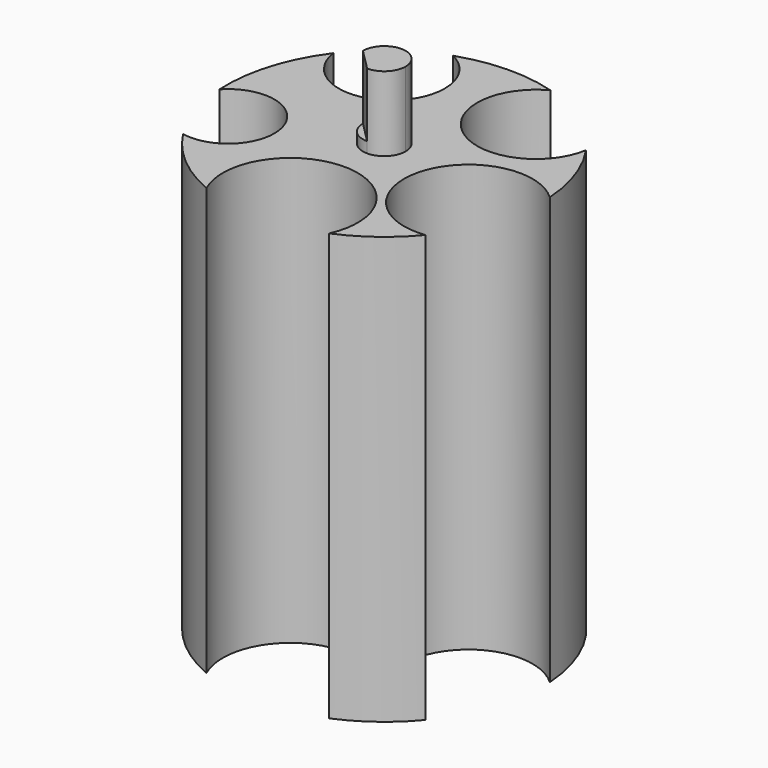
from build123d import *

# Parameters (mm, degrees)
F1_DEPTH = 100
F4_DEPTH = 17.5
F5_DEPTH = 2.5


with BuildPart() as f1:
    # F0 (on Top) → F1 (new body)
    with BuildSketch(Plane.XY):
        with BuildLine():
            ThreePointArc((28.5209304486, -23.5702466331), (12.2876501905, -3.9924995673), (36.9281607922, 2.3045477884))
            ThreePointArc((36.9281607922, 2.3045477884), (34.9662176525, 12.0980834464), (30.4561960313, 21.0100005546))
            ThreePointArc((30.4561960313, 21.0100005546), (8.8261833484, 12.1481991875), (10.5702157772, 35.4580109203))
            ThreePointArc((10.5702157772, 35.4580109203), (-0.6938621952, 36.9934934178), (-11.8924377724, 35.0366939626))
            ThreePointArc((-11.8924377724, 35.0366939626), (-6.8453800934, 30.4634762693), (-4.9749320578, 23.9145423537))
            ThreePointArc((-4.9749320578, 23.9145423537), (-16.4840155326, 11.5465890976), (-29.6469107264, 22.1373142992))
            ThreePointArc((-29.6469107264, 22.1373142992), (-35.4260679906, 10.6767835385), (-36.9421307963, -2.0685676756))
            ThreePointArc((-36.9421307963, -2.0685676756), (-25.064120667, 0.6380392173), (-18.2026853687, -9.4284175154))
            ThreePointArc((-18.2026853687, -9.4284175154), (-22.1469156931, -17.7804681058), (-31.1026851957, -20.0405332668))
            ThreePointArc((-31.1026851957, -20.0405332668), (-23.7959360481, -28.3329036209), (-14.3659429831, -34.0972093023))
            ThreePointArc((-14.3659429831, -34.0972093023), (-3.3658654806, -12.0826767357), (15.8, -27.52))
            ThreePointArc((15.8, -27.52), (15.4373232643, -30.8858654806), (14.3659429831, -34.0972093023))
            ThreePointArc((14.3659429831, -34.0972093023), (22.0799731419, -29.6896410563), (28.5209304486, -23.5702466331))
        make_face()
    extrude(amount=F1_DEPTH)

    # F3 (on offset) → F4 (join)
    with BuildSketch(Plane.XY.offset(100)):
        with BuildLine():
            ThreePointArc((0, -5), (3.5355339059, -3.5355339059), (5, 0))
            ThreePointArc((5, 0), (0, 5), (-5, 0))
            Line((-5, 0), (0, -5))
        make_face()
    extrude(amount=F4_DEPTH)

    # F3 (on offset) → F5 (join)
    with BuildSketch(Plane.XY.offset(100)):
        with BuildLine():
            Line((0, -5), (-5, 0))
            ThreePointArc((-5, 0), (-3.5355339059, -3.5355339059), (0, -5))
        make_face()
    extrude(amount=F5_DEPTH)


solid = f1.part
